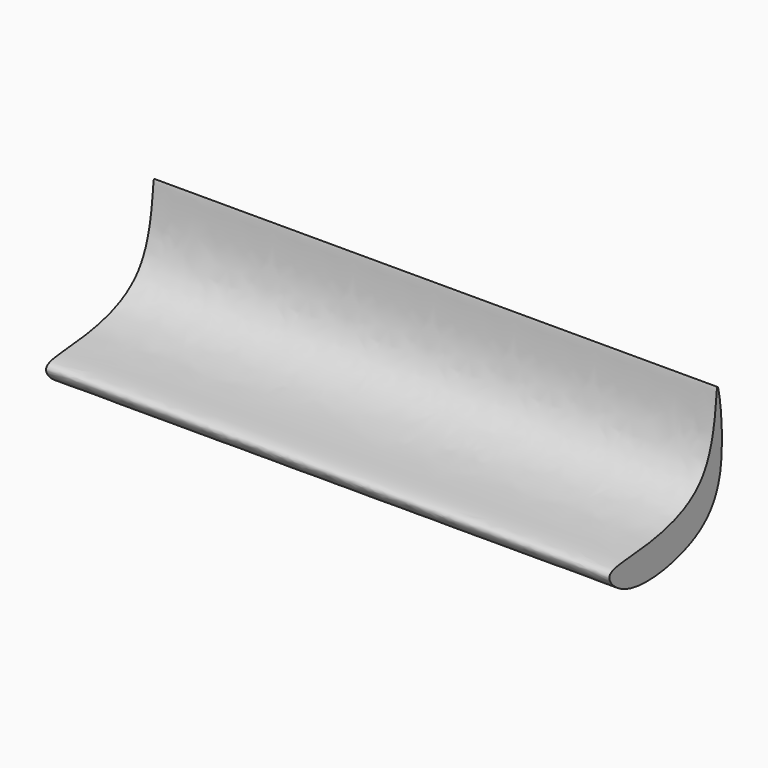
from build123d import *

# Parameters (mm, degrees)
F1_DEPTH = 254


with BuildPart() as f1:
    # F0 (on Right) → F1 (new body)
    with BuildSketch(Plane.YZ):
        with BuildLine():
            add(Edge.make_bspline(
                [(0, -28.6057945341), (11.8494560331, -27.4335141079), (52.6692137403, -25.7800255217), (50.20115151, 38.6147688731), (58.2340382166, -17.4658838195), (40.847451376, -39.9986652965), (0.5473426826, -44.9716493761), (-12.3181727345, -30.3858609336), (-5.3415773729, -29.1342429778), (0, -28.6057945341)],
                knots=[0, 0, 0, 0, 0.1874339892, 0.34628594, 0.5007283083, 0.6505320501, 0.8191637176, 0.9155072475, 1, 1, 1, 1], degree=3))
        make_face()
    extrude(amount=-F1_DEPTH)


solid = f1.part
